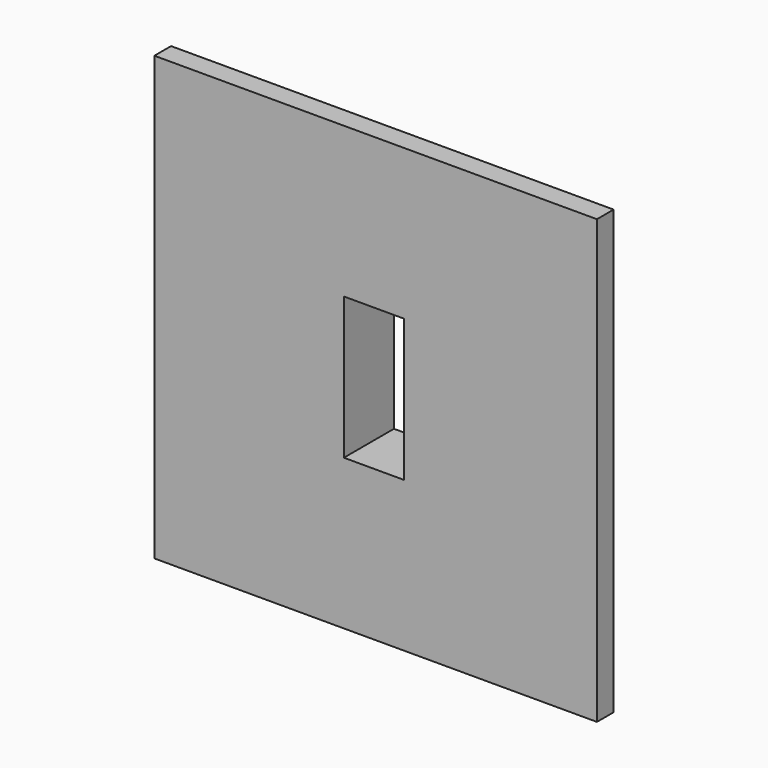
from build123d import *

# Parameters (mm, degrees)
F0_W     = 106
F0_H     = 106
F0_W_2   = 90
F0_H_2   = 90
F1_DEPTH = 15
F2_DEPTH = 10
F3_W     = 14.440985
F3_H     = 34
F4_DEPTH = 25


with BuildPart() as f1:
    # F0 (on Front) → F1 (new body)
    with BuildSketch(Plane.XZ):
        with Locations((1.458907, 15.220348)):
            Rectangle(F0_W, F0_H)
        with Locations((1.458907, 15.220348)):
            Rectangle(F0_W_2, F0_H_2, mode=Mode.SUBTRACT)
        with Locations((1.458907, 15.220348)):
            Rectangle(F0_W_2, F0_H_2)
    extrude(amount=F1_DEPTH)

    # F0 (on Front) → F2 (cut)
    with BuildSketch(Plane.XZ):
        with Locations((1.458907, 15.220348)):
            Rectangle(F0_W, F0_H)
        with Locations((1.458907, 15.220348)):
            Rectangle(F0_W_2, F0_H_2, mode=Mode.SUBTRACT)
    extrude(amount=F2_DEPTH, mode=Mode.SUBTRACT)

    # F3 (on face) → F4 (cut)
    with BuildSketch(Plane(origin=(0, 0, 0), x_dir=(-1, 0, 0), z_dir=(0, 1, 0))):
        with Locations((-1.06852, 15.220348)):
            Rectangle(F3_W, F3_H)
    extrude(amount=-F4_DEPTH, mode=Mode.SUBTRACT)


solid = f1.part
